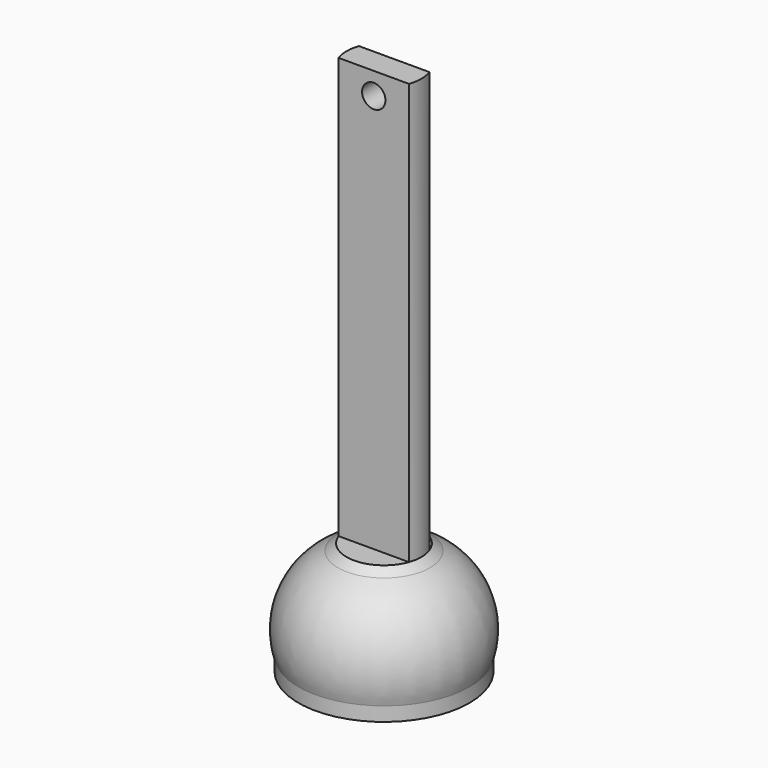
from build123d import *

# Parameters (mm, degrees)
F3_DEPTH = 57.15
F4_R     = 1.5875
F5_DEPTH = 13.827831


with BuildPart() as f1:
    # F0 (on Front) → F1 (revolve)
    with BuildSketch(Plane.XZ):
        with BuildLine():
            Line((0, 7.874), (0, -7.874))
            ThreePointArc((0, -7.874), (7.874, 0), (0, 7.874))
        make_face()
        with BuildLine():
            ThreePointArc((0, 9.144), (6.038144, 6.866844), (9.068897, 1.16955))
            ThreePointArc((9.068897, 1.16955), (9.184026, -0.276906), (9.068897, -1.723362))
            Line((9.068897, -1.723362), (7.97962, -1.723362))
            ThreePointArc((7.97962, -1.723362), (7.871257, -1.768247), (7.826371, -1.87661))
            Line((7.826371, -1.87661), (7.826371, -3.628362))
            Line((7.826371, -3.628362), (9.068897, -3.628362))
            Line((9.068897, -3.628362), (11.608897, -3.628362))
            Line((11.608897, -3.628362), (11.608897, -1.723362))
            ThreePointArc((11.608897, -1.723362), (11.254892, 5.523099), (6.260406, 10.785383))
            Line((6.260406, 10.785383), (5.08, 11.684))
            Line((5.08, 11.684), (0, 11.684))
            Line((0, 11.684), (0, 9.144))
        make_face()
    revolve(axis=Axis((0, 0, 0), (0, 0, -1)))

    # F2 (on face) → F3 (join)
    with BuildSketch(Plane.XY.offset(11.684)):
        with BuildLine():
            Line((-4.775587, -1.732099), (4.775587, -1.732099))
            ThreePointArc((4.775587, -1.732099), (5.08, 0), (4.775587, 1.732099))
            Line((4.775587, 1.732099), (-4.775587, 1.732099))
            ThreePointArc((-4.775587, 1.732099), (-5.08, 0), (-4.775587, -1.732099))
        make_face()
    extrude(amount=F3_DEPTH)

    # F4 (on face) → F5 (cut, through all)
    with BuildSketch(Plane.XZ.offset(1.732099)):
        with Locations((0, 65.827727)):
            Circle(F4_R)
    extrude(amount=-F5_DEPTH, mode=Mode.SUBTRACT)


solid = f1.part
